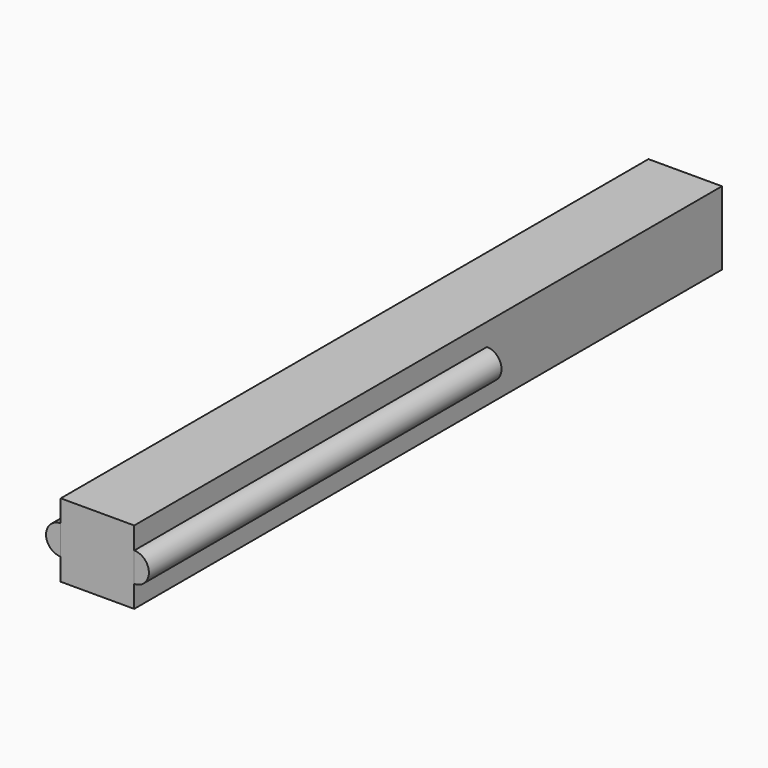
from build123d import *

# Parameters (mm, degrees)
CYLINDER002_R          = 2
CYLINDER002_DEPTH      = 60
CYLINDER002_ROLL_ANGLE = 90
CYLINDER003_R          = 2
CYLINDER003_DEPTH      = 60
CYLINDER003_ROLL_ANGLE = 90
CYLINDER001_R          = 2
CYLINDER001_DEPTH      = 60
CYLINDER001_ROLL_ANGLE = 90
CYLINDER_R             = 2
CYLINDER_DEPTH         = 60
CYLINDER_ROLL_ANGLE    = 90
BOX_W                  = 10
BOX_H                  = 100
BOX_DEPTH              = 10
BOX001_W               = 10
BOX001_H               = 100
BOX001_DEPTH           = 10


with BuildPart() as cylinder002:
    # Cylinder002 → Cylinder002 (new body)
    with BuildSketch(Plane.XY):
        Circle(CYLINDER002_R)
    extrude(amount=CYLINDER002_DEPTH)


with BuildPart() as cylinder002_1:
    # Cylinder002 roll: moved
    add(cylinder002.part.rotate(Axis((0, 0, 0), (1, 0, 0)), CYLINDER002_ROLL_ANGLE))


with BuildPart() as cylinder002_2:
    # Cylinder002 placement: moved
    add(cylinder002_1.part.moved(Location((-5, 60, 0))))


with BuildPart() as cylinder003:
    # Cylinder003 → Cylinder003 (new body)
    with BuildSketch(Plane.XY):
        Circle(CYLINDER003_R)
    extrude(amount=CYLINDER003_DEPTH)


with BuildPart() as cylinder003_1:
    # Cylinder003 roll: moved
    add(cylinder003.part.rotate(Axis((0, 0, 0), (1, 0, 0)), CYLINDER003_ROLL_ANGLE))


with BuildPart() as cylinder003_2:
    # Cylinder003 placement: moved
    add(cylinder003_1.part.moved(Location((5, 60, 0))))


with BuildPart() as cylinder001:
    # Cylinder001 → Cylinder001 (new body)
    with BuildSketch(Plane.XY):
        Circle(CYLINDER001_R)
    extrude(amount=CYLINDER001_DEPTH)


with BuildPart() as cylinder001_1:
    # Cylinder001 roll: moved
    add(cylinder001.part.rotate(Axis((0, 0, 0), (1, 0, 0)), CYLINDER001_ROLL_ANGLE))


with BuildPart() as cylinder001_2:
    # Cylinder001 placement: moved
    add(cylinder001_1.part.moved(Location((5, 60, 0))))


with BuildPart() as cylinder:
    # Cylinder → Cylinder (new body)
    with BuildSketch(Plane.XY):
        Circle(CYLINDER_R)
    extrude(amount=CYLINDER_DEPTH)


with BuildPart() as cylinder_1:
    # Cylinder roll: moved
    add(cylinder.part.rotate(Axis((0, 0, 0), (1, 0, 0)), CYLINDER_ROLL_ANGLE))


with BuildPart() as cylinder_2:
    # Cylinder placement: moved
    add(cylinder_1.part.moved(Location((-5, 60, 0))))


with BuildPart() as cut001:
    # Box → Box (new body)
    with BuildSketch(Plane(origin=(-5, 0, -5), x_dir=(1, 0, 0), z_dir=(0, 0, 1))):
        with Locations((5, 50)):
            Rectangle(BOX_W, BOX_H)
    extrude(amount=BOX_DEPTH)

    # Cut: cut Cylinder
    add(cylinder_2.part, mode=Mode.SUBTRACT)

    # Cut001: cut Cylinder001
    add(cylinder001_2.part, mode=Mode.SUBTRACT)


with BuildPart() as cube001:
    # Box001 → Box001 (new body)
    with BuildSketch(Plane(origin=(-5, 0, -5), x_dir=(1, 0, 0), z_dir=(0, 0, 1))):
        with Locations((5, 50)):
            Rectangle(BOX001_W, BOX001_H)
    extrude(amount=BOX001_DEPTH)


solid = Compound([cylinder002_2.part, cylinder003_2.part, cut001.part, cube001.part])
